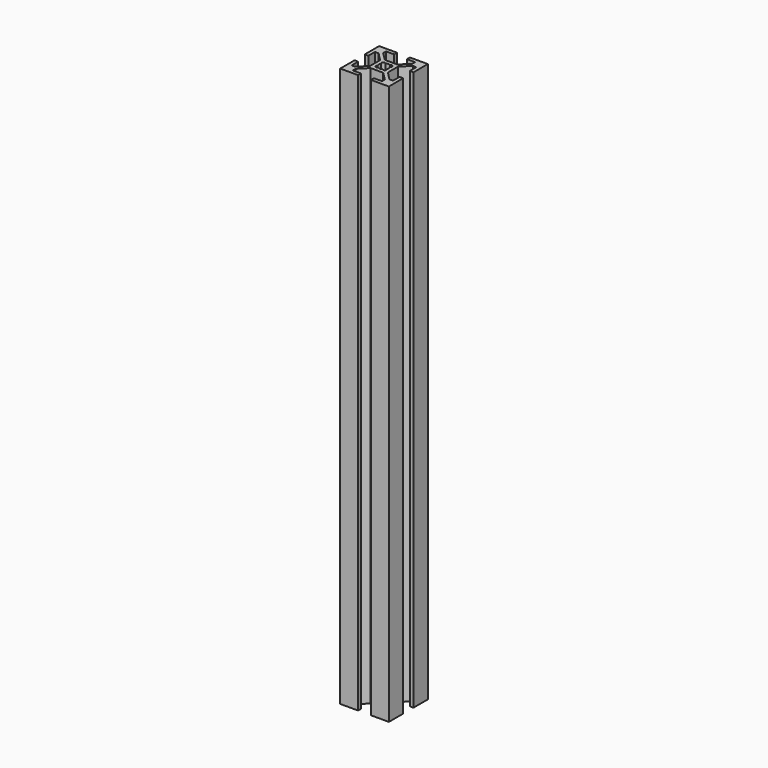
from build123d import *

# Parameters (mm, degrees)
F1_DEPTH = 230


with BuildPart() as f1:
    # F0 (on Top) → F1 (new body)
    with BuildSketch(Plane.XY):
        Polygon((10, 2.63), (10, 10), (2.63, 10), (2.63, 8.5), (5.995, 8.5), (5.995, 7.05566), (2.59934, 3.66), (-2.59934, 3.66), (-5.995, 7.05566), (-5.995, 8.5), (-2.63, 8.5), (-2.63, 10), (-10, 10), (-10, 2.63), (-8.5, 2.63), (-8.5, 5.995), (-7.05566, 5.995), (-3.66, 2.59934), (-3.66, -2.59934), (-7.05566, -5.995), (-8.5, -5.995), (-8.5, -2.63), (-10, -2.63), (-10, -10), (-2.63, -10), (-2.63, -8.5), (-5.995, -8.5), (-5.995, -7.05566), (-2.59934, -3.66), (2.59934, -3.66), (5.995, -7.05566), (5.995, -8.5), (2.63, -8.5), (2.63, -10), (10, -10), (10, -2.63), (8.5, -2.63), (8.5, -5.995), (7.05566, -5.995), (3.66, -2.59934), (3.66, 2.59934), (7.05566, 5.995), (8.5, 5.995), (8.5, 2.63), align=None)
        with BuildLine():
            ThreePointArc((1.886053, 0.912048), (2.042095, 0.467838), (2.095, 0))
            ThreePointArc((2.095, 0), (2.042095, -0.467838), (1.886053, -0.912048))
            ThreePointArc((1.886053, -0.912048), (2.102098, -1.161042), (2.179889, -1.481389))
            ThreePointArc((2.179889, -1.481389), (1.693777, -2.146816), (0.912048, -1.886053))
            ThreePointArc((0.912048, -1.886053), (0, -2.095), (-0.912048, -1.886053))
            ThreePointArc((-0.912048, -1.886053), (-1.975303, -1.975303), (-1.886053, -0.912048))
            ThreePointArc((-1.886053, -0.912048), (-2.095, 0), (-1.886053, 0.912048))
            ThreePointArc((-1.886053, 0.912048), (-1.975303, 1.975303), (-0.912048, 1.886053))
            ThreePointArc((-0.912048, 1.886053), (0, 2.095), (0.912048, 1.886053))
            ThreePointArc((0.912048, 1.886053), (1.693777, 2.146816), (2.179889, 1.481389))
            ThreePointArc((2.179889, 1.481389), (2.102098, 1.161042), (1.886053, 0.912048))
        make_face(mode=Mode.SUBTRACT)
    extrude(amount=F1_DEPTH)


solid = f1.part
